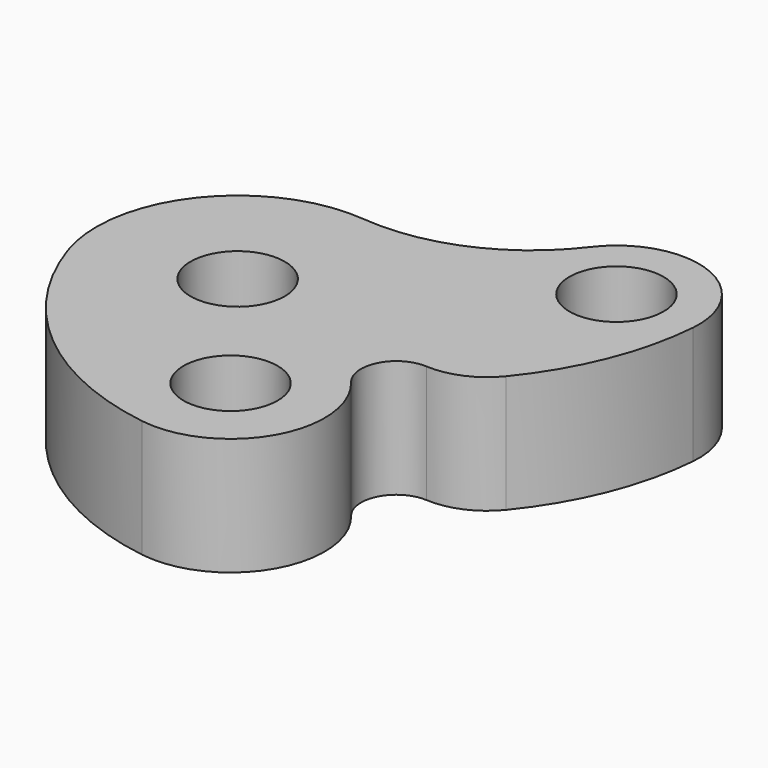
from build123d import *

# Parameters (mm, degrees)
F0_R     = 10
F1_DEPTH = 25


with BuildPart() as f1:
    # F0 (on Top) → F1 (new body)
    with BuildSketch(Plane.XY):
        with BuildLine():
            ThreePointArc((38.542283, 45.556141), (22.735304, 33.066072), (2.845255, 29.864771))
            ThreePointArc((2.845255, 29.864771), (-23.500056, 18.647986), (-28.437033, -9.556942))
            ThreePointArc((-28.437033, -9.556942), (-10.114002, -36.419331), (19.531483, -49.778471))
            ThreePointArc((19.531483, -49.778471), (39.914847, -39.834791), (37.904534, -17.244596))
            ThreePointArc((37.904534, -17.244596), (36.990811, -9.071889), (44.120823, -4.974213))
            ThreePointArc((44.120823, -4.974213), (51.030762, -3.734261), (56.619703, 0.514089))
            ThreePointArc((56.619703, 0.514089), (65.792763, 16.032989), (69.941986, 33.576228))
            ThreePointArc((69.941986, 33.576228), (58.738158, 51.350394), (38.542283, 45.556141))
        make_face()
        Circle(F0_R, mode=Mode.SUBTRACT)
        with Locations((22.5, -30)):
            Circle(F0_R, mode=Mode.SUBTRACT)
        with Locations((52.5, 35)):
            Circle(F0_R, mode=Mode.SUBTRACT)
    extrude(amount=F1_DEPTH)


solid = f1.part
